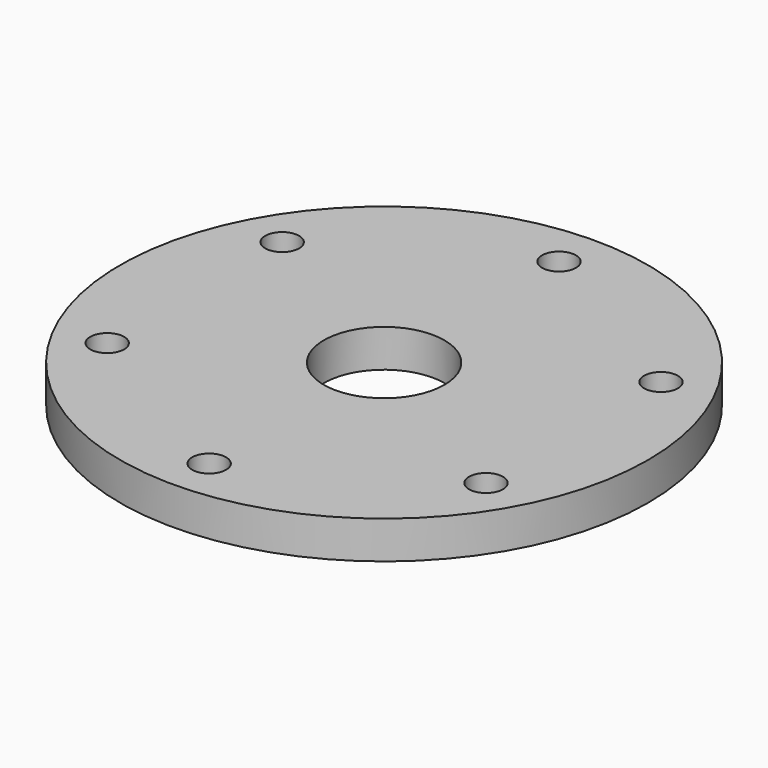
from build123d import *

# Parameters (mm, degrees)
F0_R     = 35
F0_R_2   = 2.25
F0_R_3   = 8
F1_DEPTH = 5


with BuildPart() as f1:
    # F0 (on Top) → F1 (new body)
    with BuildSketch(Plane.XY):
        Circle(F0_R)
        with Locations((-25.114737, -14.5)):
            Circle(F0_R_2, mode=Mode.SUBTRACT)
        with Locations((0, -29)):
            Circle(F0_R_2, mode=Mode.SUBTRACT)
        with Locations((25.114737, -14.5)):
            Circle(F0_R_2, mode=Mode.SUBTRACT)
        with Locations((-25.114737, 14.5)):
            Circle(F0_R_2, mode=Mode.SUBTRACT)
        Circle(F0_R_3, mode=Mode.SUBTRACT)
        with Locations((25.114737, 14.5)):
            Circle(F0_R_2, mode=Mode.SUBTRACT)
        with Locations((0, 29)):
            Circle(F0_R_2, mode=Mode.SUBTRACT)
    extrude(amount=F1_DEPTH)


solid = f1.part
